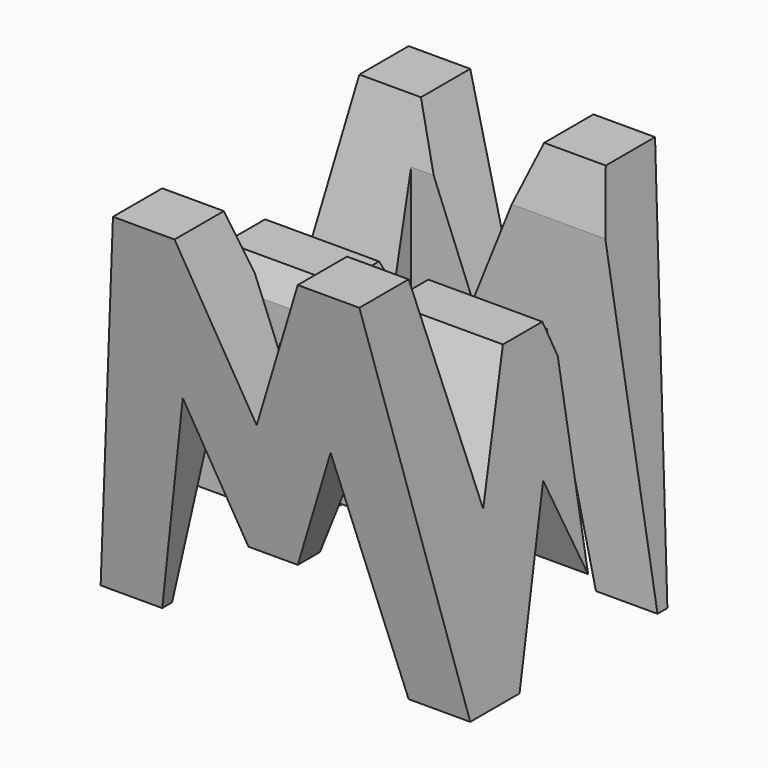
from build123d import *

# Parameters (mm, degrees)
F0_W      = 38.1
F0_H      = 38.1
F1_DEPTH  = 38.1
F6_DEPTH  = 38.1
F8_DEPTH  = 38.1
F9_W      = 25.4
F9_H      = 7.62
F9_H_2    = 7.619996
F10_DEPTH = 38.1


with BuildPart() as f1:
    # F0 (on Front) → F1 (new body)
    with BuildSketch(Plane.XZ):
        with Locations((19.05, 19.05)):
            Rectangle(F0_W, F0_H)
    extrude(amount=F1_DEPTH)

    # F5 (on offset) → F6 (cut)
    with BuildSketch(Plane.YZ.offset(38.1)):
        Polygon((-11.43, 14.807015), (-6.35, 38.1), (-31.75, 38.1), (-26.67, 16.386524), (-21.59, 28.575), (-16.51, 28.575), align=None)
        Polygon((-25.4, 0), (-12.7, 0), (-19.05, 15.875), align=None)
        Polygon((-38.1, 0), (-31.75, 0), (-38.1, 38.1), align=None)
        Polygon((-6.35, 0), (0, 0), (0, 38.1), align=None)
    extrude(amount=-F6_DEPTH, mode=Mode.SUBTRACT)

    # F7 (on offset) → F8 (cut)
    with BuildSketch(Plane.XZ.offset(38.1)):
        Polygon((11.43, 22.225), (6.35, 0), (31.75, 0), (26.67, 22.225), (21.59, 9.525), (16.51, 9.525), align=None)
        Polygon((0, 38.1), (0, 0), (6.35, 38.1), align=None)
        Polygon((25.4, 38.1), (12.7, 38.1), (19.05, 22.225), align=None)
        Polygon((31.75, 38.1), (38.100006, 0), (38.100006, 38.1), align=None)
    extrude(amount=-F8_DEPTH, mode=Mode.SUBTRACT)

    # F9 (on offset) → F10 (cut)
    with BuildSketch(Plane.XY.offset(38.1)):
        with Locations((25.4, -11.43)):
            Rectangle(F9_W, F9_H)
        with Locations((12.7, -26.669998)):
            Rectangle(F9_W, F9_H_2)
    extrude(amount=-F10_DEPTH, mode=Mode.SUBTRACT)


solid = f1.part
